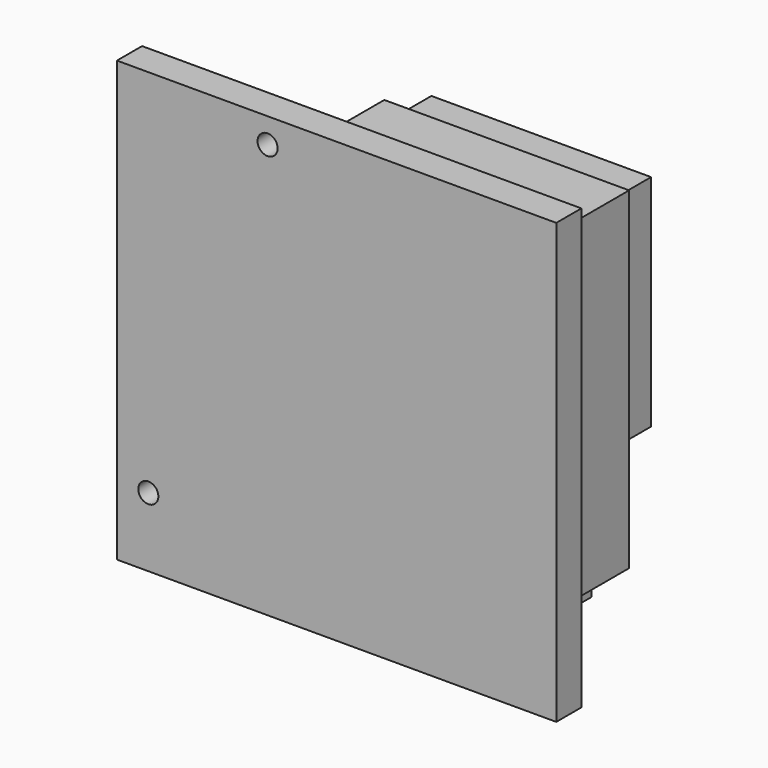
from build123d import *

# Parameters (mm, degrees)
SKETCH016_W  = 70
SKETCH016_H  = 70
SKETCH016_R  = 1.6
PAD012_DEPTH = 5
PAD013_DEPTH = 12
SKETCH018_W  = 35
SKETCH018_H  = 35
PAD014_DEPTH = 7.5


with BuildPart() as part:
    # Sketch016 → Pad012 (new body)
    with BuildSketch(Plane.XZ):
        Rectangle(SKETCH016_W, SKETCH016_H)
        with Locations((-30, -24)):
            Circle(SKETCH016_R, mode=Mode.SUBTRACT)
        with Locations((-11, 31)):
            Circle(SKETCH016_R, mode=Mode.SUBTRACT)
    extrude(amount=-PAD012_DEPTH)

    # Sketch017 (on Face8 of Pad012) → Pad013 (join)
    with BuildSketch(Plane(origin=(0, 5, 0), x_dir=(1, 0, 0), z_dir=(0, 1, 0))):
        Polygon((-20, 27), (-33, 14), (-33, -8), (-20, -8), (-6, -32), (33, -32), (33, 21), (27, 21), (27, 27), align=None)
    extrude(amount=PAD013_DEPTH)

    # Sketch018 (on Face18 of Pad013) → Pad014 (join)
    with BuildSketch(Plane(origin=(0, 17, 0), x_dir=(1, 0, 0), z_dir=(0, 1, 0))):
        with Locations((13, -12.5)):
            Rectangle(SKETCH018_W, SKETCH018_H)
    extrude(amount=PAD014_DEPTH)


with BuildPart() as part_1:
    # Body010 placement: moved
    add(part.part.moved(Location((0, 16.5, -80.2))))


solid = part_1.part
